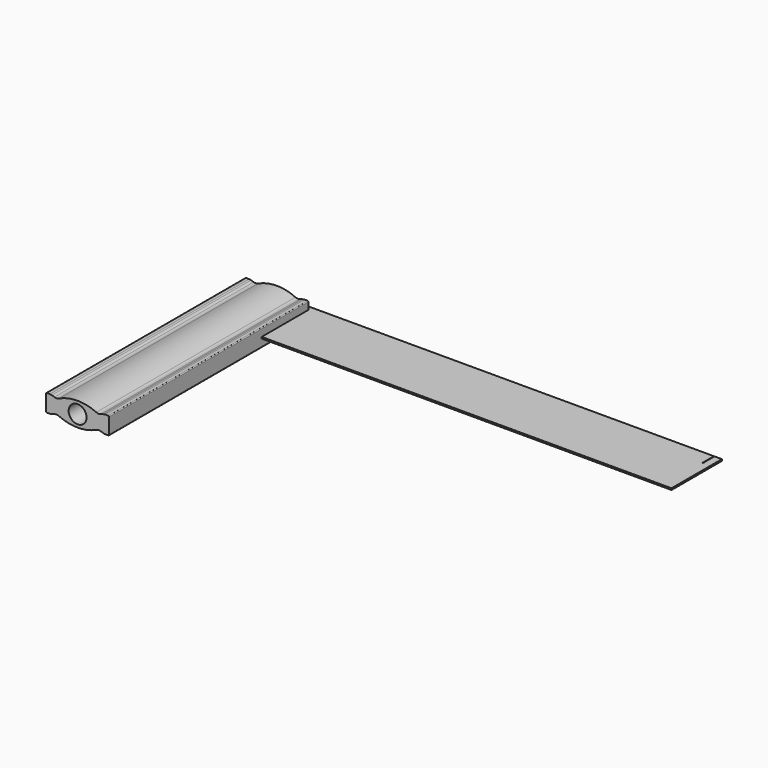
from build123d import *

# Parameters (mm, degrees)
F0_R     = 5.676649
F1_DEPTH = 158
F2_W     = 3
F2_H     = 1
F2_W_2   = 37
F3_DEPTH = 300
F4_W     = 0.3
F4_H     = 9
F5_DEPTH = 0.5


with BuildPart() as f1:
    # F0 (on Front) → F1 (new body)
    with BuildSketch(Plane.XZ):
        with BuildLine():
            Line((17.630959, -5.5), (19.5, -5.5))
            ThreePointArc((19.5, -5.5), (19.853553, -5.353553), (20, -5))
            Line((20, -5), (20, 5))
            ThreePointArc((20, 5), (19.853553, 5.353553), (19.5, 5.5))
            Line((19.5, 5.5), (17.630959, 5.5))
            ThreePointArc((17.630959, 5.5), (17.007706, 5.451146), (16.399678, 5.305778))
            Line((16.399678, 5.305778), (14.734471, 4.767035))
            ThreePointArc((14.734471, 4.767035), (13.268353, 4.579712), (11.834298, 4.937596))
            ThreePointArc((11.834298, 4.937596), (0, 7.524315), (-11.834298, 4.937596))
            ThreePointArc((-11.834298, 4.937596), (-13.268353, 4.579712), (-14.734471, 4.767035))
            Line((-14.734471, 4.767035), (-16.399678, 5.305778))
            ThreePointArc((-16.399678, 5.305778), (-17.007706, 5.451146), (-17.630959, 5.5))
            Line((-17.630959, 5.5), (-19.5, 5.5))
            ThreePointArc((-19.5, 5.5), (-19.853553, 5.353553), (-20, 5))
            Line((-20, 5), (-20, -5))
            ThreePointArc((-20, -5), (-19.853553, -5.353553), (-19.5, -5.5))
            Line((-19.5, -5.5), (-17.630959, -5.5))
            ThreePointArc((-17.630959, -5.5), (-17.007706, -5.451146), (-16.399678, -5.305778))
            Line((-16.399678, -5.305778), (-14.734471, -4.767035))
            ThreePointArc((-14.734471, -4.767035), (-13.268353, -4.579712), (-11.834298, -4.937596))
            ThreePointArc((-11.834298, -4.937596), (0, -7.524315), (11.834298, -4.937596))
            ThreePointArc((11.834298, -4.937596), (13.268353, -4.579712), (14.734471, -4.767035))
            Line((14.734471, -4.767035), (16.399678, -5.305778))
            ThreePointArc((16.399678, -5.305778), (17.007706, -5.451146), (17.630959, -5.5))
        make_face()
        Circle(F0_R, mode=Mode.SUBTRACT)
    extrude(amount=F1_DEPTH)

    # F2 (on face) → F3 (join)
    with BuildSketch(Plane(origin=(-20, 0, 0), x_dir=(0, -1, 0), z_dir=(-1, 0, 0))):
        with Locations((-1.5, 0)):
            Rectangle(F2_W, F2_H)
        with Locations((18.5, 0)):
            Rectangle(F2_W_2, F2_H)
    extrude(amount=-F3_DEPTH)

    # F4 (on face) → F5 (cut)
    with BuildSketch(Plane.XY.offset(0.5)):
        with Locations((275.1, -1.5)):
            Rectangle(F4_W, F4_H)
    extrude(amount=-F5_DEPTH, mode=Mode.SUBTRACT)


solid = f1.part
